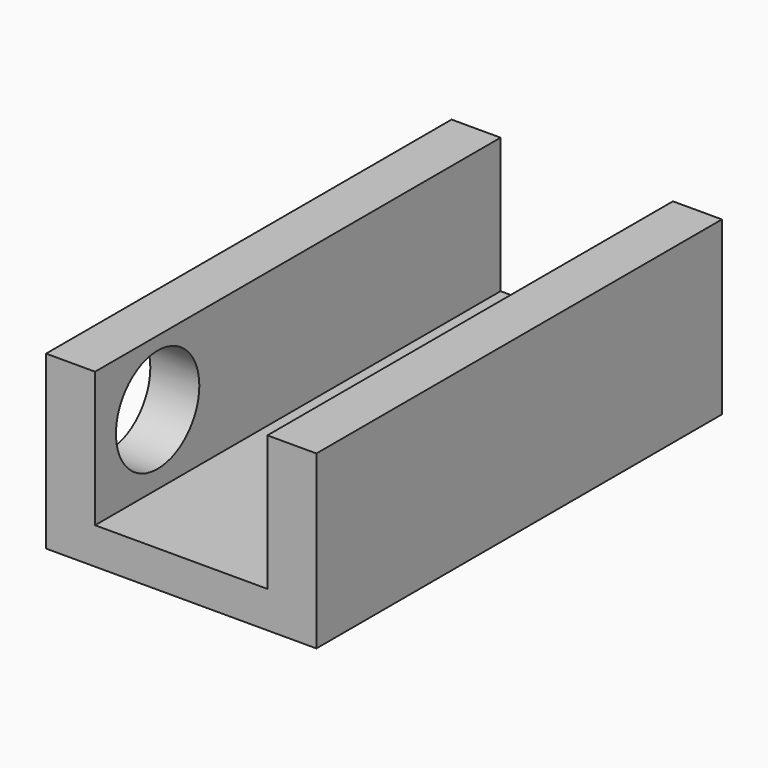
from build123d import *

# Parameters (mm, degrees)
F0_W     = 150
F0_H     = 50.8
F1_DEPTH = 80
F2_W     = 51
F2_H     = 150
F3_DEPTH = 40
F4_R     = 15.425374
F5_DEPTH = 25.4


with BuildPart() as f1:
    # F0 (on Right) → F1 (new body)
    with BuildSketch(Plane.YZ):
        with Locations((15.329447, 25.4)):
            Rectangle(F0_W, F0_H)
    extrude(amount=F1_DEPTH)

    # F2 (on face) → F3 (cut)
    with BuildSketch(Plane.XY.offset(50.8)):
        with Locations((40, 15.329447)):
            Rectangle(F2_W, F2_H)
    extrude(amount=-F3_DEPTH, mode=Mode.SUBTRACT)

    # F4 (on face) → F5 (cut)
    with BuildSketch(Plane.YZ):
        with Locations((-36.535583, 31.488702)):
            Circle(F4_R)
    extrude(amount=F5_DEPTH, mode=Mode.SUBTRACT)


solid = f1.part
